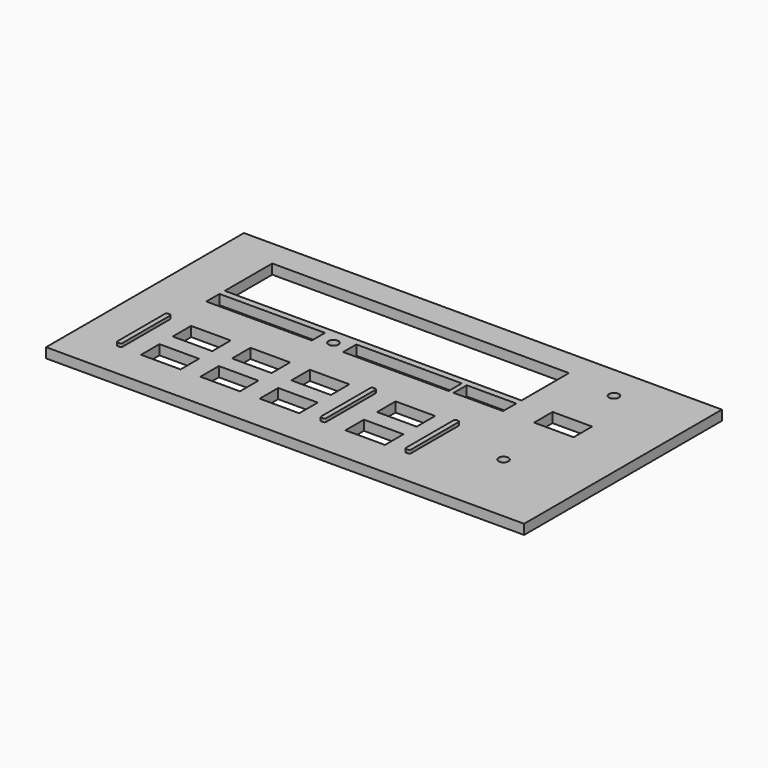
from build123d import *

# Parameters (mm, degrees)
F0_W     = 145
F0_H     = 75
F0_W_2   = 12
F0_H_2   = 7
F0_R     = 1.5
F0_W_3   = 32
F0_H_3   = 5
F0_W_4   = 90
F0_H_4   = 18
F0_W_5   = 15
F1_DEPTH = 3
F3_DEPTH = 1


with BuildPart() as f1:
    # F0 (on Top) → F1 (new body)
    with BuildSketch(Plane.XY):
        with Locations((72.5, -37.5)):
            Rectangle(F0_W, F0_H)
        with Locations((26, -60.5)):
            Rectangle(F0_W_2, F0_H_2, mode=Mode.SUBTRACT)
        with Locations((44, -60.5)):
            Rectangle(F0_W_2, F0_H_2, mode=Mode.SUBTRACT)
        with Locations((62, -60.5)):
            Rectangle(F0_W_2, F0_H_2, mode=Mode.SUBTRACT)
        with Locations((26, -48.5)):
            Rectangle(F0_W_2, F0_H_2, mode=Mode.SUBTRACT)
        with Locations((44, -48.5)):
            Rectangle(F0_W_2, F0_H_2, mode=Mode.SUBTRACT)
        with Locations((62, -48.5)):
            Rectangle(F0_W_2, F0_H_2, mode=Mode.SUBTRACT)
        with Locations((88, -60.5)):
            Rectangle(F0_W_2, F0_H_2, mode=Mode.SUBTRACT)
        with Locations((88, -48.5)):
            Rectangle(F0_W_2, F0_H_2, mode=Mode.SUBTRACT)
        with Locations((120.617509, -52.318472)):
            Circle(F0_R, mode=Mode.SUBTRACT)
        with Locations((31, -30.5)):
            Rectangle(F0_W_3, F0_H_3, mode=Mode.SUBTRACT)
        with Locations((51.75, -30.71763)):
            Circle(F0_R, mode=Mode.SUBTRACT)
        with Locations((60, -17)):
            Rectangle(F0_W_4, F0_H_4, mode=Mode.SUBTRACT)
        with Locations((72.5, -30.5)):
            Rectangle(F0_W_3, F0_H_3, mode=Mode.SUBTRACT)
        with Locations((97.5, -30.5)):
            Rectangle(F0_W_5, F0_H_3, mode=Mode.SUBTRACT)
        with Locations((120.430524, -29.5)):
            Rectangle(F0_W_2, F0_H_2, mode=Mode.SUBTRACT)
        with Locations((120.617509, -10.455477)):
            Circle(F0_R, mode=Mode.SUBTRACT)
    extrude(amount=F1_DEPTH)

    # F2 (on face) → F3 (join)
    with BuildSketch(Plane.XY.offset(3)):
        with BuildLine():
            Line((13.5, -45), (13, -45))
            ThreePointArc((13, -45), (12.646447, -45.146447), (12.5, -45.5))
            Line((12.5, -45.5), (12.5, -63.5))
            ThreePointArc((12.5, -63.5), (12.646447, -63.853553), (13, -64))
            Line((13, -64), (13.5, -64))
            ThreePointArc((13.5, -64), (13.853553, -63.853553), (14, -63.5))
            Line((14, -63.5), (14, -45.5))
            ThreePointArc((14, -45.5), (13.853553, -45.146447), (13.5, -45))
        make_face()
        with BuildLine():
            Line((101, -45), (100.5, -45))
            ThreePointArc((100.5, -45), (100.146447, -45.146447), (100, -45.5))
            Line((100, -45.5), (100, -63.5))
            ThreePointArc((100, -63.5), (100.146447, -63.853553), (100.5, -64))
            Line((100.5, -64), (101, -64))
            ThreePointArc((101, -64), (101.353553, -63.853553), (101.5, -63.5))
            Line((101.5, -63.5), (101.5, -45.5))
            ThreePointArc((101.5, -45.5), (101.353553, -45.146447), (101, -45))
        make_face()
        with BuildLine():
            Line((75.25, -44.364751), (74.75, -44.364751))
            ThreePointArc((74.75, -44.364751), (74.396447, -44.511198), (74.25, -44.864751))
            Line((74.25, -44.864751), (74.25, -63.5))
            ThreePointArc((74.25, -63.5), (74.396447, -63.853553), (74.75, -64))
            Line((74.75, -64), (75.25, -64))
            ThreePointArc((75.25, -64), (75.603553, -63.853553), (75.75, -63.5))
            Line((75.75, -63.5), (75.75, -44.864751))
            ThreePointArc((75.75, -44.864751), (75.603553, -44.511198), (75.25, -44.364751))
        make_face()
    extrude(amount=F3_DEPTH)


solid = f1.part
